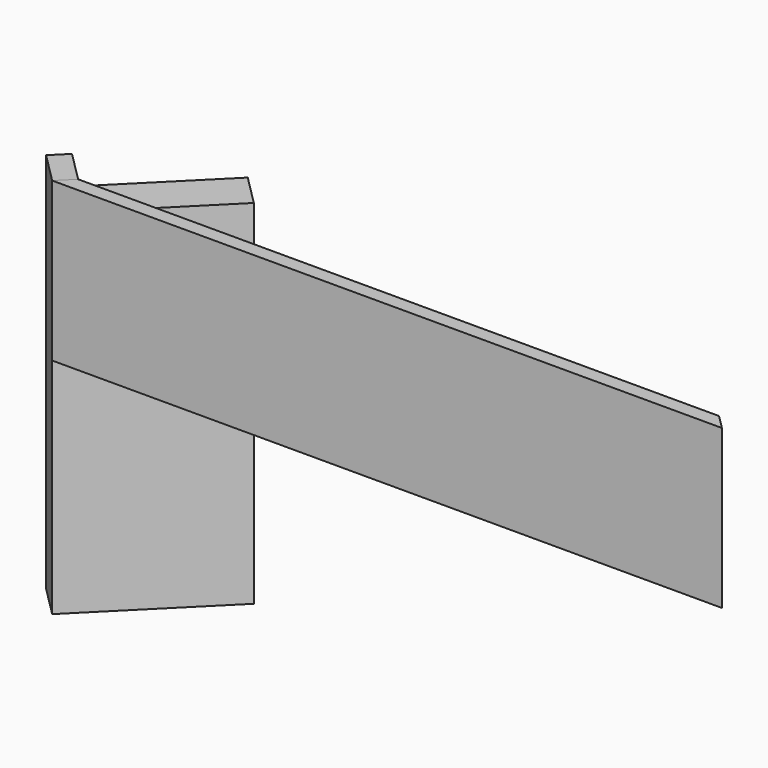
from build123d import *

# Parameters (mm, degrees)
F1_DEPTH = 139.7
F2_W     = 590.55
F2_H     = 25.4
F3_DEPTH = 25.4
F5_DEPTH = 336.55
F7_DEPTH = 25.4


with BuildPart() as f1:
    # F0 (on Top) → F1 (new body)
    with BuildSketch(Plane.XY):
        Polygon((38.1, 38.1), (0, 0), (590.55, 0), (552.45, 38.1), align=None)
    extrude(amount=F1_DEPTH)

    # F2 (on face) → F3 (cut)
    with BuildSketch(Plane.XY.offset(139.7)):
        with Locations((295.275, 25.4)):
            Rectangle(F2_W, F2_H)
    extrude(amount=-F3_DEPTH, mode=Mode.SUBTRACT)


with BuildPart() as f5:
    # F4 (on face) → F5 (new body)
    with BuildSketch(Plane.XY.offset(139.7)):
        Polygon((-26.940768, 26.940768), (0, 0), (98.782817, 98.782817), (71.842049, 125.723586), align=None)
    extrude(amount=-F5_DEPTH)

    # F6 (on face) → F7 (cut)
    with BuildSketch(Plane.XY.offset(139.7)):
        Polygon((98.782817, 98.782817), (71.842049, 125.723586), (-14.240768, 39.640768), (12.7, 12.7), align=None)
    extrude(amount=-F7_DEPTH, mode=Mode.SUBTRACT)


solid = Compound([f1.part, f5.part])
